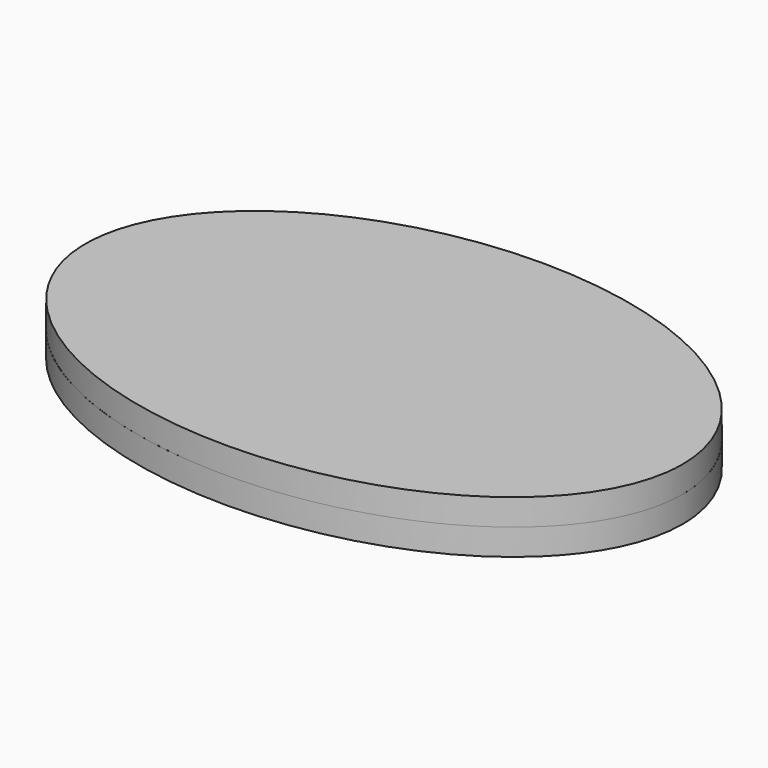
from build123d import *

# Parameters (mm, degrees)
PAD_DEPTH    = 3
PAD001_DEPTH = 3


with BuildPart() as part:
    # Sketch → Pad (new body)
    with BuildSketch(Plane.XY):
        with BuildLine():
            add(Edge.make_bspline(
                [(34, 0), (34, 38.971143), (-17, 19.485572), (-68, 0), (-17, -19.485572), (34, -38.971143), (34, 0)],
                knots=[0, 0, 0, 2.094395, 2.094395, 4.18879, 4.18879, 6.283185, 6.283185, 6.283185], degree=2, weights=[1, 0.5, 1, 0.5, 1, 0.5, 1]))
        make_face()
    extrude(amount=PAD_DEPTH)

    # Sketch002 → Pad001 (join)
    with BuildSketch(Plane(origin=(0, 0, 0), x_dir=(1, 0, 0), z_dir=(0, 0, -1))):
        with BuildLine():
            add(Edge.make_bspline(
                [(33.999993, -0.021748), (34.02492, 38.949388), (-16.987533, 19.496441), (-67.999986, 0.043495), (-17.01246, -19.474694), (33.975066, -38.992883), (33.999993, -0.021748)],
                knots=[0, 0, 0, 2.094395, 2.094395, 4.18879, 4.18879, 6.283185, 6.283185, 6.283185], degree=2, weights=[1, 0.5, 1, 0.5, 1, 0.5, 1]))
        make_face()
    extrude(amount=PAD001_DEPTH)


solid = part.part
